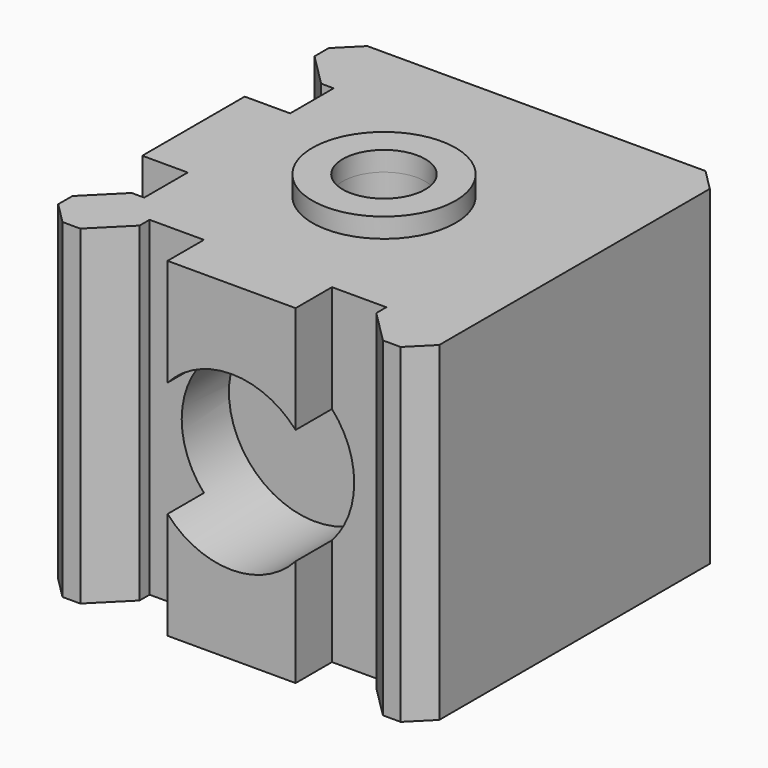
from build123d import *

# Parameters (mm, degrees)
F0_R     = 8
F1_DEPTH = 63.15
F2_R     = 16.5
F3_DEPTH = 20
F4_R     = 16.5
F5_DEPTH = 20
F6_R     = 13.7
F6_R_2   = 7.89
F7_DEPTH = 3.75


with BuildPart() as f1:
    # F0 (on Top) → F1 (new body)
    with BuildSketch(Plane.XY):
        Polygon((32.348781, 36.45), (-32.348781, 36.45), (-36.45, 32.348781), (-36.45, 28.948781), (-30.15, 22.648781), (-27.75, 22.648781), (-27.75, 12.248781), (-36.45, 12.248781), (-36.45, -12.248781), (-27.75, -12.248781), (-27.75, -22.648781), (-30.15, -22.648781), (-36.45, -28.948781), (-36.45, -32.348781), (-32.348781, -36.45), (-28.948781, -36.45), (-22.648781, -30.15), (-22.648781, -27.75), (-12.248781, -27.75), (-12.248781, -36.45), (12.248781, -36.45), (12.248781, -27.75), (22.648781, -27.75), (22.648781, -30.15), (28.948781, -36.45), (32.348781, -36.45), (36.45, -32.348781), (36.45, 32.348781), align=None)
        Circle(F0_R, mode=Mode.SUBTRACT)
    extrude(amount=F1_DEPTH)

    # F2 (on face) → F3 (cut)
    with BuildSketch(Plane.XZ.offset(36.45)):
        with Locations((0, 31.575)):
            Circle(F2_R)
    extrude(amount=-F3_DEPTH, mode=Mode.SUBTRACT)

    # F4 (on face) → F5 (cut)
    with BuildSketch(Plane(origin=(-36.45, 0, 0), x_dir=(0, -1, 0), z_dir=(-1, 0, 0))):
        with Locations((0, 31.575)):
            Circle(F4_R)
    extrude(amount=-F5_DEPTH, mode=Mode.SUBTRACT)

    # F6 (on face) → F7 (join)
    with BuildSketch(Plane.XY.offset(63.15)):
        Circle(F6_R)
        Circle(F6_R_2, mode=Mode.SUBTRACT)
    extrude(amount=F7_DEPTH)


solid = f1.part
